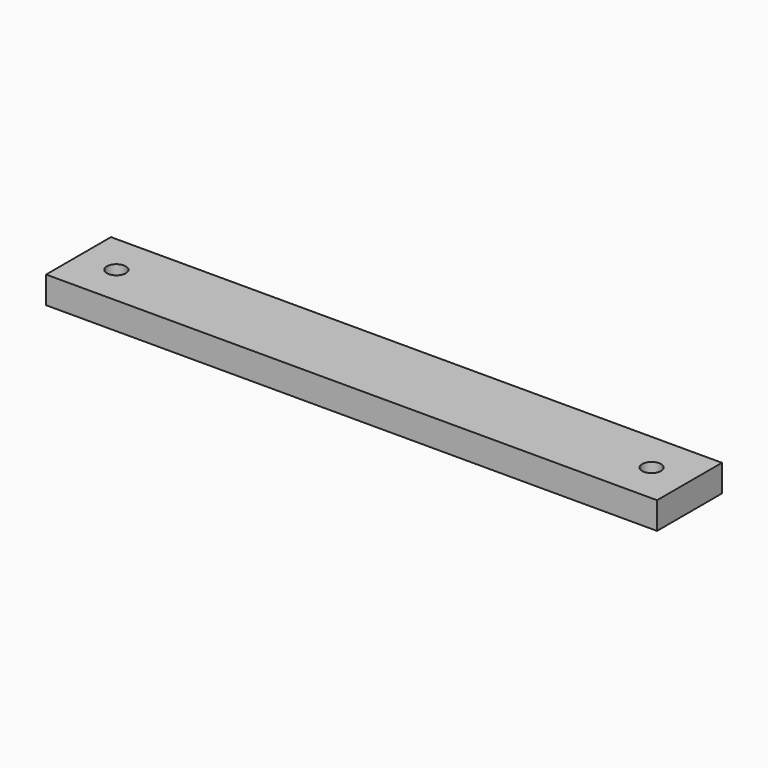
from build123d import *

# Parameters (mm, degrees)
F0_R     = 1.75
F1_DEPTH = 5
F2_R     = 3.5
F3_DEPTH = 2.5


with BuildPart() as f1:
    # F0 (on Top) → F1 (new body)
    with BuildSketch(Plane.XY):
        with BuildLine():
            ThreePointArc((-47.75, 0), (-49.5, 1.75), (-51.25, 0))
            ThreePointArc((-51.25, 0), (-49.5, -1.75), (-47.75, 0))
        make_face()
        Polygon((-56.5, 0), (-56.5, -7.5), (56.5, -7.5), (56.5, 7.5), (-56.5, 7.5), align=None)
        with BuildLine():
            ThreePointArc((-47.75, 0), (-49.5, -1.75), (-51.25, 0))
            ThreePointArc((-51.25, 0), (-49.5, 1.75), (-47.75, 0))
        make_face(mode=Mode.SUBTRACT)
        with Locations((49.5, 0)):
            Circle(F0_R, mode=Mode.SUBTRACT)
    extrude(amount=F1_DEPTH)

    # F2 (on face) → F3 (cut)
    with BuildSketch(Plane(origin=(0, 0, 0), x_dir=(1, 0, 0), z_dir=(0, 0, -1))):
        with Locations((-49.5, 0)):
            Circle(F2_R)
        with Locations((49.5, 0)):
            Circle(F2_R)
    extrude(amount=-F3_DEPTH, mode=Mode.SUBTRACT)


solid = f1.part
